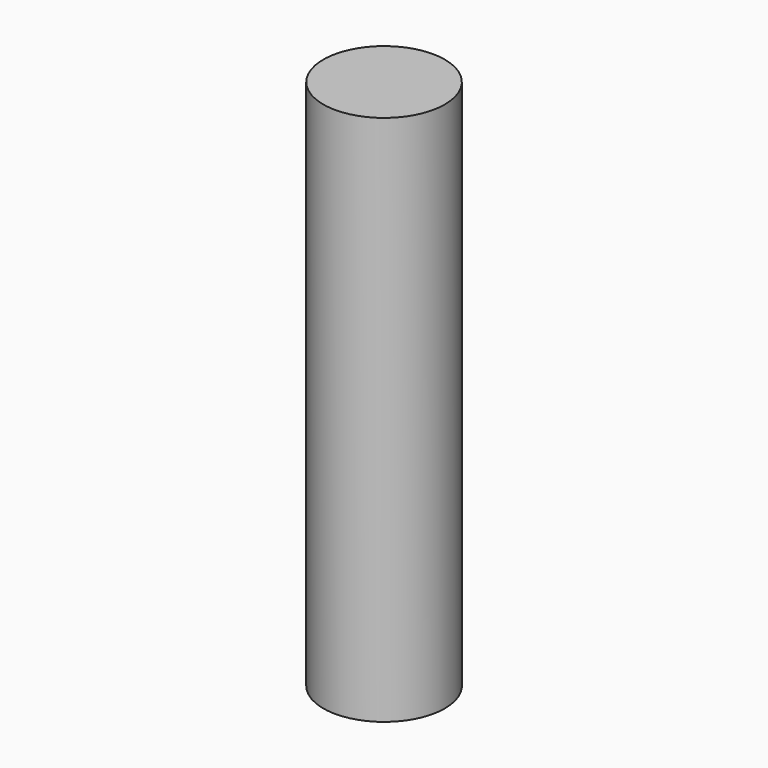
from build123d import *

# Parameters (mm, degrees)
CYLINDER_R     = 1.7145
CYLINDER_DEPTH = 15


with BuildPart() as part:
    # Cylinder → Cylinder (new body)
    with BuildSketch(Plane.XY.offset(-2.5)):
        Circle(CYLINDER_R)
    extrude(amount=CYLINDER_DEPTH)


solid = part.part
